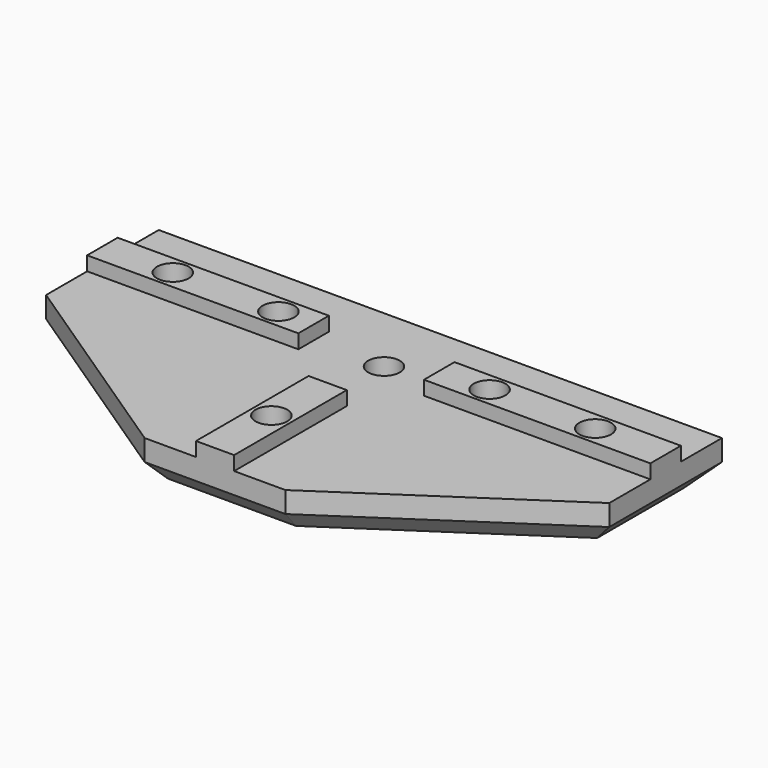
from build123d import *

# Parameters (mm, degrees)
F1_DEPTH = 6
F2_W     = 30
F2_H     = 5.42
F3_DEPTH = 2
F4_R     = 2.25
F5_DEPTH = 8.001
F6_R     = 3.75
F7_DEPTH = 2
F9_DEPTH = 6
F10_SIZE = 3


with BuildPart() as f1:
    # F0 (on Top) → F1 (new body)
    with BuildSketch(Plane.XY):
        Polygon((-40, 0), (-10, 0), (-10, -20), (0, -20), (10, -20), (10, 0), (40, 0), (40, 20), (0, 20), (-40, 20), align=None)
    extrude(amount=F1_DEPTH)

    # F2 (on face) → F3 (join)
    with BuildSketch(Plane.XY.offset(6)):
        Polygon((2.71, 0), (0, 0), (-2.71, 0), (-2.71, -20), (2.71, -20), align=None)
        Polygon((7.845558, 12.71), (7.845558, 10), (7.845558, 7.29), (40, 7.29), (40, 12.71), align=None)
        with Locations((-25, 10)):
            Rectangle(F2_W, F2_H)
    extrude(amount=F3_DEPTH)

    # F4 (on face) → F5 (cut, through all)
    with BuildSketch(Plane(origin=(0, 0, 0), x_dir=(1, 0, 0), z_dir=(0, 0, -1))):
        with Locations((-30, -10)):
            Circle(F4_R)
        with Locations((0, -10)):
            Circle(F4_R)
        with Locations((0, 10)):
            Circle(F4_R)
        with Locations((30, -10)):
            Circle(F4_R)
        with Locations((15, -10)):
            Circle(F4_R)
        with Locations((-15, -10)):
            Circle(F4_R)
    extrude(amount=-F5_DEPTH, mode=Mode.SUBTRACT)

    # F6 (on face) → F7 (cut)
    with BuildSketch(Plane(origin=(0, 0, 0), x_dir=(1, 0, 0), z_dir=(0, 0, -1))):
        with Locations((0, 10)):
            Circle(F6_R)
        with Locations((0, -10)):
            Circle(F6_R)
        with Locations((30, -10)):
            Circle(F6_R)
        with Locations((-30, -10)):
            Circle(F6_R)
        with Locations((-15, -10)):
            Circle(F6_R)
        with Locations((15, -10)):
            Circle(F6_R)
    extrude(amount=-F7_DEPTH, mode=Mode.SUBTRACT)

    # F8 (on face) → F9 (join)
    with BuildSketch(Plane.XY.offset(6)):
        Polygon((-10, 0), (-40, 0), (-10, -20), align=None)
        Polygon((10, 0), (10, -20), (40, 0), align=None)
    extrude(amount=-F9_DEPTH)

    # F10
    f10_edges = [f1.edges().sort_by_distance(p)[0] for p in [
        (-25, -10, 0),
        (0, -20, 0),
        (25, -10, 0),
        (40, 10, 0),
        (-40, 10, 0),
        (0, 20, 0),
    ]]
    chamfer(f10_edges, length=F10_SIZE)


solid = f1.part
